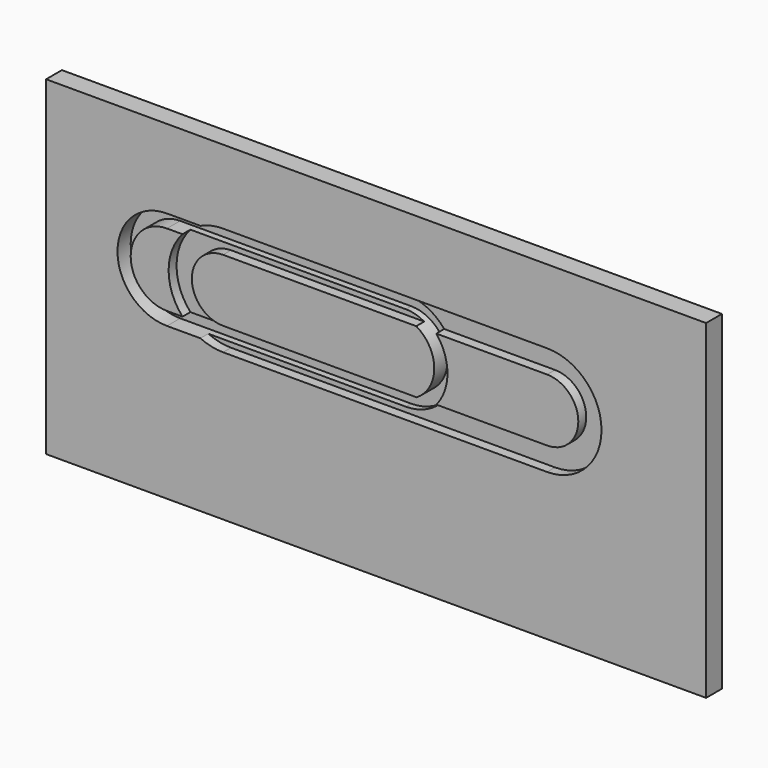
from build123d import *

# Parameters (mm, degrees)
F0_W     = 2000
F0_H     = 1000
F1_DEPTH = 60
F3_DEPTH = 50
F5_DEPTH = 30


with BuildPart() as f1:
    # F0 (on Front) → F1 (new body)
    with BuildSketch(Plane.XZ):
        with Locations((0.223722, 171.635427)):
            Rectangle(F0_W, F0_H)
    extrude(amount=F1_DEPTH)

    # F2 (on face) → F3 (cut)
    with BuildSketch(Plane.XZ.offset(60)):
        with BuildLine():
            Line((66.574438, 432.670482), (-633.425562, 432.670482))
            ThreePointArc((-633.425562, 432.670482), (-783.425562, 282.670482), (-633.425562, 132.670482))
            Line((-633.425562, 132.670482), (66.574438, 132.670482))
            ThreePointArc((66.574438, 132.670482), (216.574438, 282.670482), (66.574438, 432.670482))
        make_face()
        with BuildLine():
            ThreePointArc((-633.425562, 172.670482), (-743.425562, 282.670482), (-633.425562, 392.670482))
            Line((-633.425562, 392.670482), (66.574438, 392.670482))
            ThreePointArc((66.574438, 392.670482), (176.574438, 282.670482), (66.574438, 172.670482))
            Line((66.574438, 172.670482), (-633.425562, 172.670482))
        make_face(mode=Mode.SUBTRACT)
    extrude(amount=-F3_DEPTH, mode=Mode.SUBTRACT)

    # F4 (on face) → F5 (cut)
    with BuildSketch(Plane.XZ.offset(60)):
        with BuildLine():
            Line((518.270671, 447.670482), (-463.444501, 447.670482))
            ThreePointArc((-463.444501, 447.670482), (-628.444501, 282.670482), (-463.444501, 117.670482))
            Line((-463.444501, 117.670482), (518.270671, 117.670482))
            ThreePointArc((518.270671, 117.670482), (683.270671, 282.670482), (518.270671, 447.670482))
        make_face()
        with BuildLine():
            ThreePointArc((-463.444501, 188.270956), (-558.16412, 282.990575), (-463.444501, 377.710193))
            Line((-463.444501, 377.710193), (518.270671, 377.710193))
            ThreePointArc((518.270671, 377.710193), (612.99029, 282.990575), (518.270671, 188.270956))
            Line((518.270671, 188.270956), (-463.444501, 188.270956))
        make_face(mode=Mode.SUBTRACT)
    extrude(amount=-F5_DEPTH, mode=Mode.SUBTRACT)


solid = f1.part
